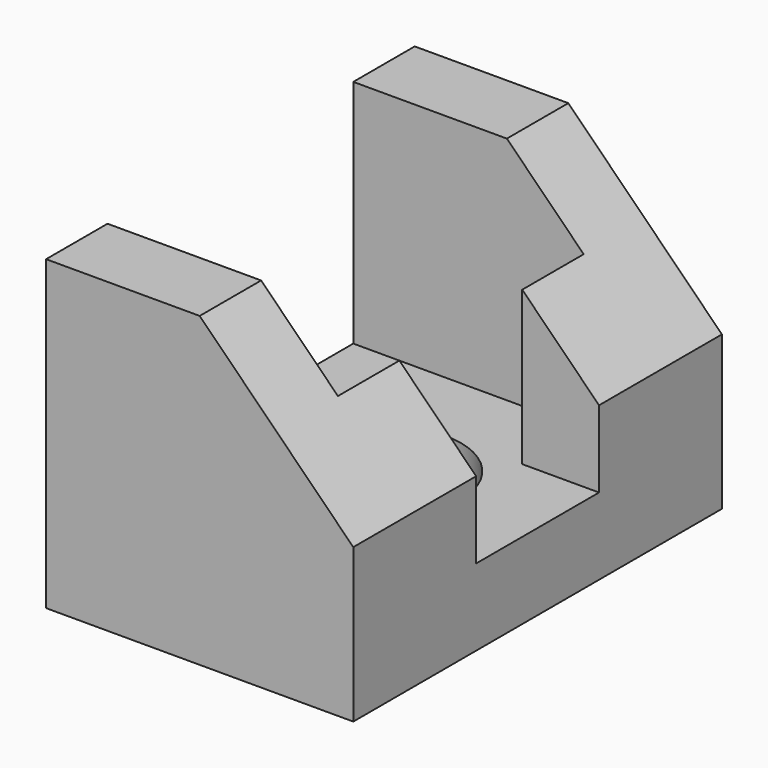
from build123d import *

# Parameters (mm, degrees)
F1_DEPTH = 30
F2_W     = 20
F2_H     = 40
F3_DEPTH = 30
F4_R     = 10
F5_DEPTH = 10


with BuildPart() as f1:
    # F0 (on Front) → F1 (new body, symmetric)
    with BuildSketch(Plane.XZ):
        Polygon((0, 40), (-20, 40), (-20, 0), (20, 0), (20, 20), align=None)
    extrude(amount=F1_DEPTH, both=True)

    # F2 (on face) → F3 (cut)
    with BuildSketch(Plane.XY.offset(40)):
        with Locations((-10, 0)):
            Rectangle(F2_W, F2_H)
        Polygon((10, 20), (0, 20), (0, -20), (10, -20), (10, -10), (20, -10), (20, 10), (10, 10), align=None)
    extrude(amount=-F3_DEPTH, mode=Mode.SUBTRACT)

    # F4 (on face) → F5 (cut, through all)
    with BuildSketch(Plane.XY.offset(10)):
        Circle(F4_R)
    extrude(amount=-F5_DEPTH, mode=Mode.SUBTRACT)


solid = f1.part
